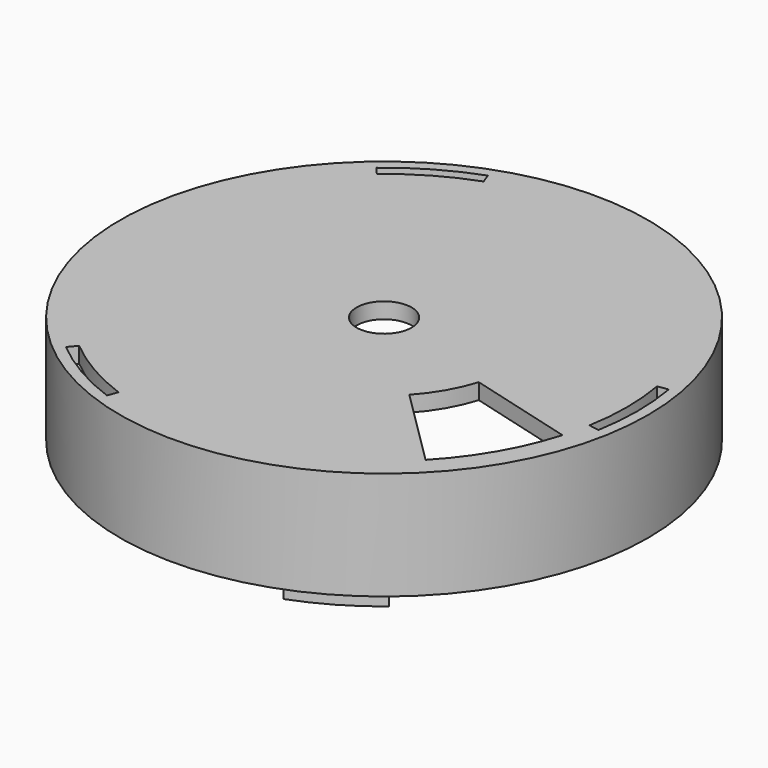
from build123d import *

# Parameters (mm, degrees)
SKETCH_R              = 50
PAD_DEPTH             = 3
SKETCH004_R           = 5.2
POCKET001_DEPTH       = 3.001
POCKET002_DEPTH       = 3.001
SKETCH006_R           = 50
SKETCH006_R_2         = 46
PAD001_DEPTH          = 17.5
POCKET003_DEPTH       = 3
POLARPATTERN001_COUNT = 3
PAD002_DEPTH          = 2.8
POLARPATTERN002_COUNT = 3


with BuildPart() as part:
    # Sketch → Pad (new body)
    with BuildSketch(Plane.XY):
        Circle(SKETCH_R)
    extrude(amount=PAD_DEPTH)

    # Sketch004 (on DatumPlane) → Pocket001 (cut, through all)
    with BuildSketch(Plane.XY.offset(3)):
        Circle(SKETCH004_R)
    extrude(amount=-POCKET001_DEPTH, mode=Mode.SUBTRACT)

    # Sketch005 → Pocket002 (cut, through all)
    with BuildSketch(Plane.XY):
        with BuildLine():
            ThreePointArc((33.2768944622, -31.7592237776), (39.8371685741, -23), (44.1427418269, -12.9390240745))
            Line((23.8754986114, -7.4135393744), (44.1427418269, -12.9390240745))
            ThreePointArc((18.3580627359, -16.9700186383), (21.6506350946, -12.5), (23.8754986114, -7.4135393744))
            Line((33.2768944622, -31.7592237776), (18.3580627359, -16.9700186383))
        make_face()
    extrude(amount=POCKET002_DEPTH, mode=Mode.SUBTRACT)

    # Sketch006 → Pad001 (join)
    with BuildSketch(Plane.XY):
        Circle(SKETCH006_R)
        Circle(SKETCH006_R_2, mode=Mode.SUBTRACT)
    extrude(amount=-PAD001_DEPTH)

    # Sketch007 (on DatumPlane) → Pocket003 (cut)
    with BuildSketch(Plane.XY.offset(3)):
        with BuildLine():
            ThreePointArc((45.3011566386, -7.9878161727), (46, 0), (45.3011566386, 7.9878161727))
            Line((45.3011566386, 7.9878161727), (47.2707721446, 8.335112528))
            ThreePointArc((47.2707721446, -8.335112528), (48, 0), (47.2707721446, 8.335112528))
            Line((47.2707721446, -8.335112528), (45.3011566386, -7.9878161727))
        make_face()
    pocket003 = extrude(amount=-POCKET003_DEPTH, mode=Mode.SUBTRACT)

    # PolarPattern001: Pocket003 ×3 about axis
    polarpattern001_axis = Axis((0, 0, 3), (0, 0, 1))
    for i in range(1, POLARPATTERN001_COUNT):
        add(pocket003.rotate(polarpattern001_axis, i * 360 / POLARPATTERN001_COUNT), mode=Mode.SUBTRACT)

    # Sketch008 (on DatumPlane) → Pad002 (join)
    with BuildSketch(Plane.XY.offset(-17.5)):
        with BuildLine():
            ThreePointArc((-45.3691376707, 7.5921898696), (-46, 0), (-45.3691376707, -7.5921898696))
            Line((-47.1444517535, -7.8892755601), (-45.3691376707, -7.5921898696))
            ThreePointArc((-47.1444517535, 7.8892755601), (-47.8, 0), (-47.1444517535, -7.8892755601))
            Line((-45.3691376707, 7.5921898696), (-47.1444517535, 7.8892755601))
        make_face()
    pad002 = extrude(amount=-PAD002_DEPTH)

    # PolarPattern002: Pad002 ×3 about axis
    polarpattern002_axis = Axis((0, 0, -17.5), (0, 0, 1))
    for i in range(1, POLARPATTERN002_COUNT):
        add(pad002.rotate(polarpattern002_axis, i * 360 / POLARPATTERN002_COUNT))


solid = part.part
